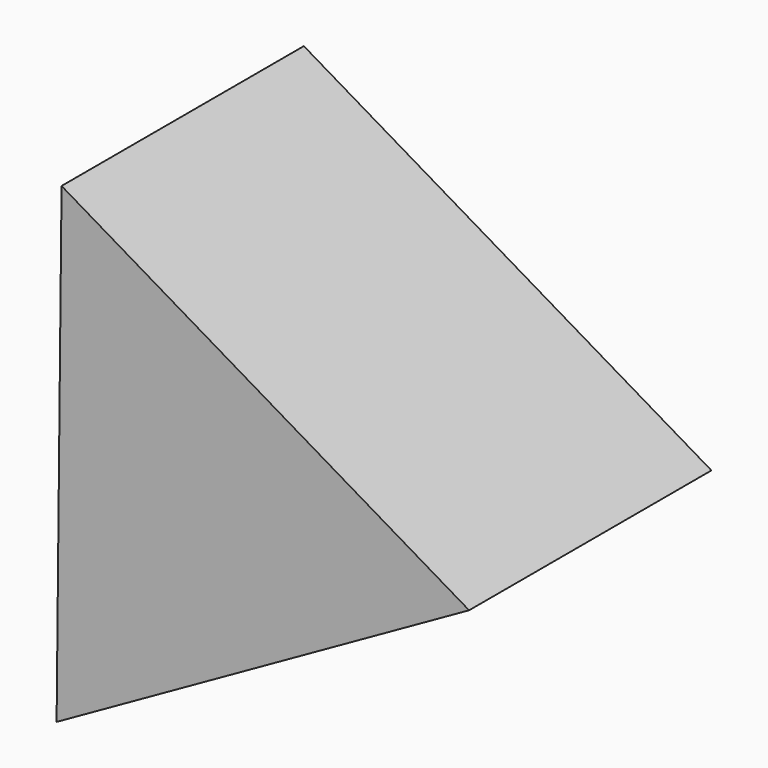
from build123d import *

# Parameters (mm, degrees)
F1_DEPTH = 101.6
F2_T     = -2.54


with BuildPart() as f1:
    # F0 (on Front) → F1 (new body)
    with BuildSketch(Plane.XZ):
        Polygon((91.702374, -0.963147), (-45.017077, 79.898159), (-46.685297, -78.935012), align=None)
    extrude(amount=F1_DEPTH)

    # F2
    f2_openings = [f1.faces().sort_by_distance(p)[0] for p in [
        (-45.851187, -50.8, 0.481574),
    ]]
    offset(amount=F2_T, openings=f2_openings)


solid = f1.part
